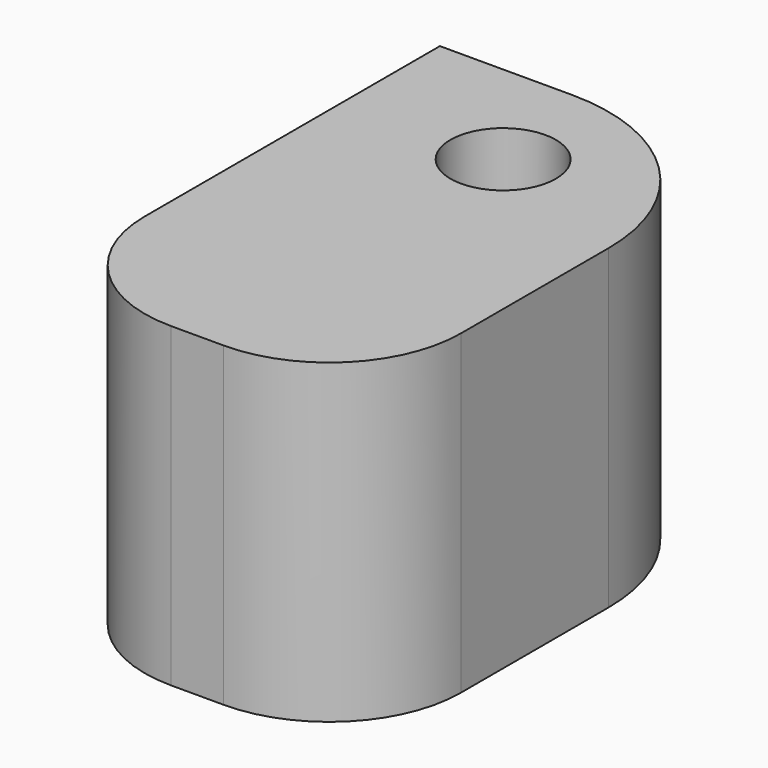
from build123d import *

# Parameters (mm, degrees)
F0_W     = 12
F0_H     = 12
F1_DEPTH = 10
F2_DEPTH = 9
F3_R     = 2
F4_DEPTH = 13
F5_R     = 7
F6_R     = 5


with BuildPart() as f1:
    # F0 (on Front) → F1 (new body)
    with BuildSketch(Plane.XZ):
        Rectangle(F0_W, F0_H)
    extrude(amount=F1_DEPTH)

    # F2 (add): a face of the model
    f2_faces = [f1.faces().sort_by_distance(p)[0] for p in [
        (0, 0, 0),
    ]]
    extrude(f2_faces, amount=F2_DEPTH)

    # F3 (on face) → F4 (cut)
    with BuildSketch(Plane.XY.offset(6)):
        with Locations((0, 4.5)):
            Circle(F3_R)
    extrude(amount=-F4_DEPTH, mode=Mode.SUBTRACT)

    # F5
    f5_edges = [f1.edges().sort_by_distance(p)[0] for p in [
        (6, 9, 0),
    ]]
    fillet(f5_edges, radius=F5_R)

    # F6
    f6_edges = [f1.edges().sort_by_distance(p)[0] for p in [
        (6, -10, 0),
        (-6, -10, 0),
    ]]
    fillet(f6_edges, radius=F6_R)


solid = f1.part
